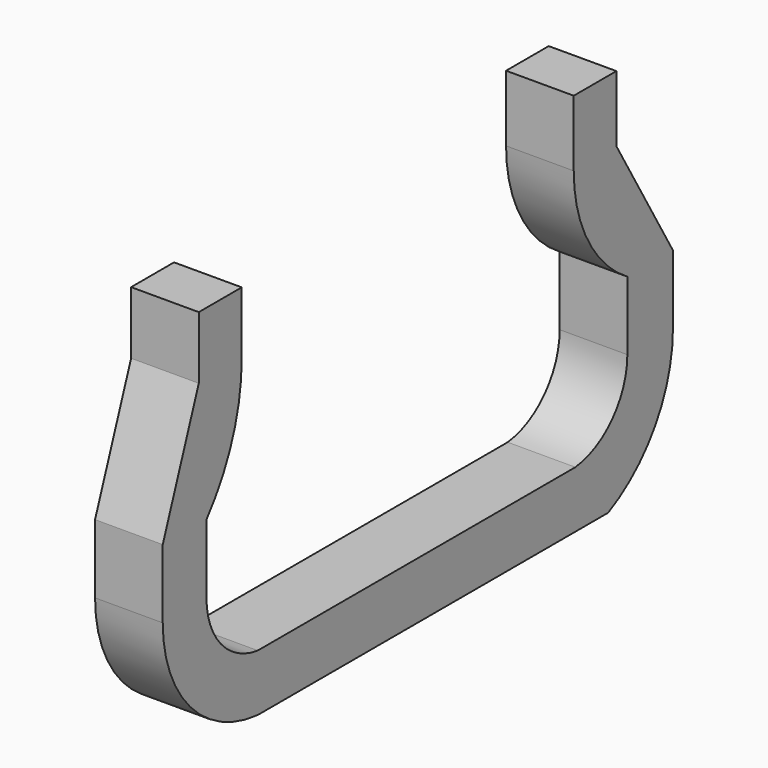
from build123d import *

# Parameters (mm, degrees)
F1_DEPTH = 2.54


with BuildPart() as f1:
    # F0 (on Right) → F1 (new body, symmetric)
    with BuildSketch(Plane.YZ):
        with BuildLine():
            Line((-16.120378, -11.680206), (-20.149658, -11.680206))
            Line((-20.149658, -11.680206), (-20.149658, -16.383019))
            Line((-20.149658, -16.383019), (-23.531376, -25.664755))
            Line((-23.531376, -25.664755), (-23.531376, -30.837569))
            ThreePointArc((-23.531376, -30.837569), (-20.965004, -37.429548), (-14.61702, -40.551014))
            Line((-14.61702, -40.551014), (18.263271, -40.551014))
            ThreePointArc((18.263271, -40.551014), (22.694546, -36.565967), (24.338398, -30.837569))
            Line((24.338398, -30.837569), (24.338398, -25.680563))
            Line((24.338398, -25.680563), (19.033357, -16.646257))
            Line((19.033357, -16.646257), (19.033357, -11.680206))
            Line((19.033357, -11.680206), (15.030766, -11.680206))
            Line((15.030766, -11.680206), (15.030766, -16.646257))
            ThreePointArc((15.030766, -16.646257), (16.372839, -21.816201), (20.06014, -25.680563))
            Line((20.06014, -25.680563), (20.06014, -30.837569))
            ThreePointArc((20.06014, -30.837569), (18.662951, -34.495548), (15.182925, -36.290643))
            Line((15.182925, -36.290643), (-14.61702, -36.290643))
            ThreePointArc((-14.61702, -36.290643), (-18.054753, -34.474263), (-19.430144, -30.837569))
            Line((-19.430144, -30.837569), (-19.430144, -25.680563))
            ThreePointArc((-19.430144, -25.680563), (-16.972494, -21.317562), (-16.120378, -16.383019))
            Line((-16.120378, -16.383019), (-16.120378, -11.680206))
        make_face()
    extrude(amount=F1_DEPTH, both=True)


solid = f1.part
